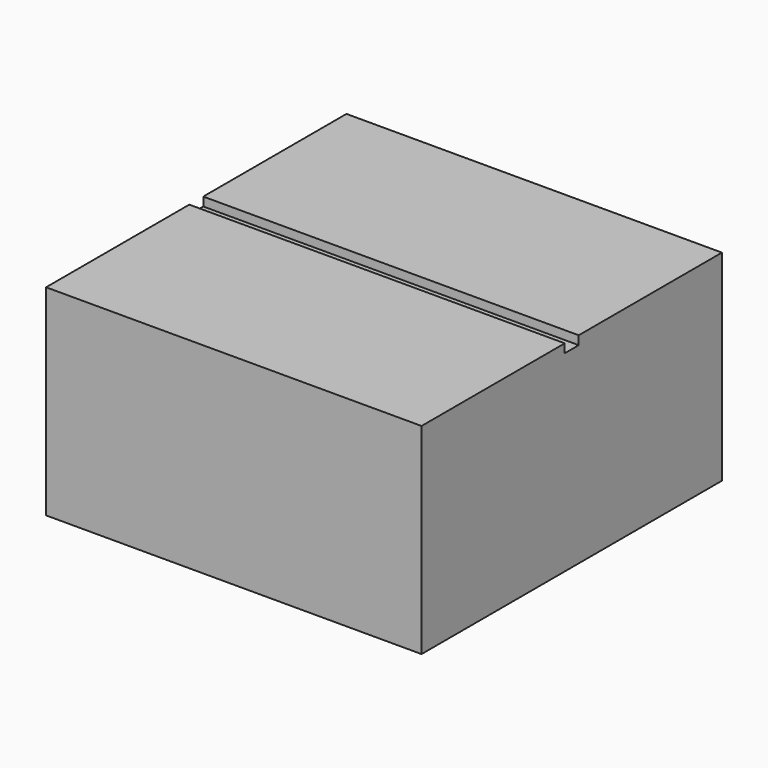
from build123d import *

# Parameters (mm, degrees)
F0_W     = 430
F0_H     = 230
F1_DEPTH = 430
F3_DEPTH = 560


with BuildPart() as f1:
    # F0 (on Right) → F1 (new body)
    with BuildSketch(Plane.YZ):
        with Locations((54.391704, -21.43599)):
            Rectangle(F0_W, F0_H)
    extrude(amount=-F1_DEPTH)

    # F2 (on face) → F3 (cut)
    with BuildSketch(Plane.YZ):
        Polygon((54.391704, 93.56401), (44.391704, 93.56401), (44.391704, 83.56401), (64.391704, 83.56401), (64.391704, 93.56401), align=None)
    extrude(amount=-F3_DEPTH, mode=Mode.SUBTRACT)


solid = f1.part
